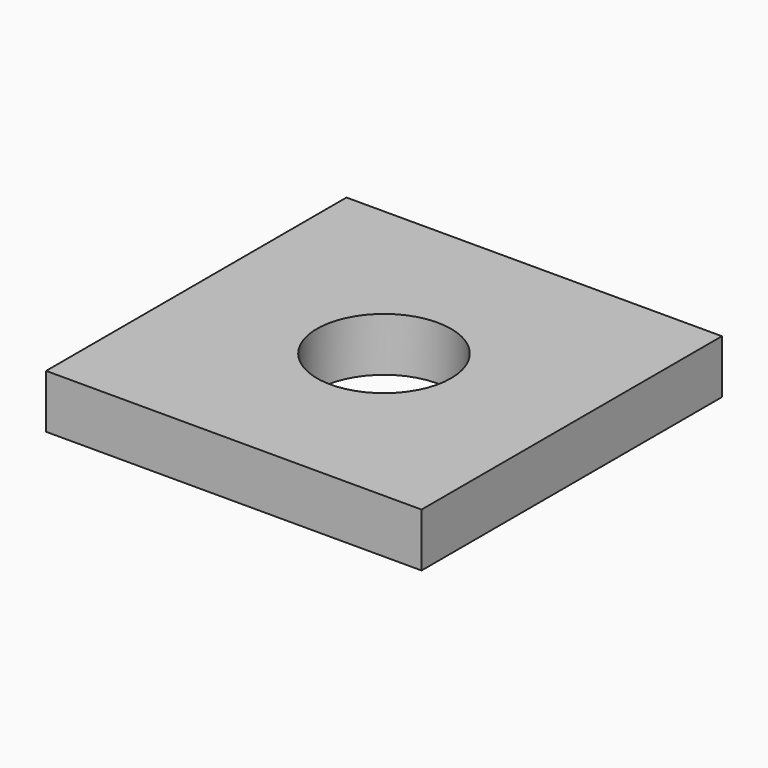
from build123d import *

# Parameters (mm, degrees)
SKETCH_W      = 14
SKETCH_H      = 14
SKETCH_R      = 2.5
EXTRUDE_DEPTH = 2


with BuildPart() as part:
    # Sketch → Extrude (new body)
    with BuildSketch(Plane.XY):
        Rectangle(SKETCH_W, SKETCH_H)
        Circle(SKETCH_R, mode=Mode.SUBTRACT)
    extrude(amount=EXTRUDE_DEPTH)


solid = part.part
